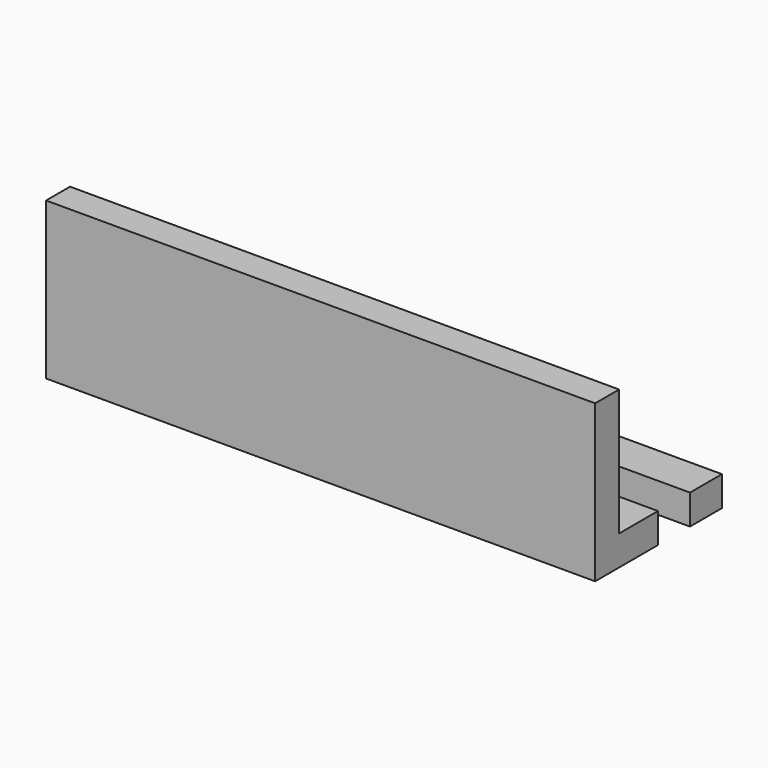
from build123d import *

# Parameters (mm, degrees)
F0_W     = 110
F0_H     = 31.75
F1_DEPTH = 6
F2_W     = 110
F2_H     = 6
F3_DEPTH = 25.4
F5_DEPTH = 31.401


with BuildPart() as f1:
    # F0 (on Top) → F1 (new body)
    with BuildSketch(Plane.XY):
        with Locations((55, 15.875)):
            Rectangle(F0_W, F0_H)
    extrude(amount=F1_DEPTH)

    # F2 (on face) → F3 (join)
    with BuildSketch(Plane.XY.offset(6)):
        with Locations((55, 3)):
            Rectangle(F2_W, F2_H)
    extrude(amount=F3_DEPTH)

    # F4 (on face) → F5 (cut, through all)
    with BuildSketch(Plane(origin=(0, 0, 0), x_dir=(1, 0, 0), z_dir=(0, 0, -1))):
        with BuildLine():
            ThreePointArc((54.5588247478, -23.749), (57.3872518725, -22.5774271247), (58.5588247478, -19.749))
            ThreePointArc((58.5588247478, -19.749), (57.3872518725, -16.9205728753), (54.5588247478, -15.749))
            Line((54.5588247478, -15.749), (54.5588247478, -19.749))
            Line((54.5588247478, -19.749), (54.5588247478, -23.749))
        make_face()
        with BuildLine():
            ThreePointArc((54.5588247478, -15.749), (57.3872518725, -16.9205728753), (58.5588247478, -19.749))
            ThreePointArc((58.5588247478, -19.749), (57.3872518725, -22.5774271247), (54.5588247478, -23.749))
            Line((54.5588247478, -23.749), (110, -23.749))
            Line((110, -23.749), (110, -15.749))
            Line((110, -15.749), (54.5588247478, -15.749))
        make_face()
        with BuildLine():
            Line((54.5588247478, -19.749), (54.5588247478, -15.749))
            ThreePointArc((54.5588247478, -15.749), (50.5588247478, -19.749), (54.5588247478, -23.749))
            Line((54.5588247478, -23.749), (54.5588247478, -19.749))
        make_face()
    extrude(amount=-F5_DEPTH, mode=Mode.SUBTRACT)


solid = f1.part
